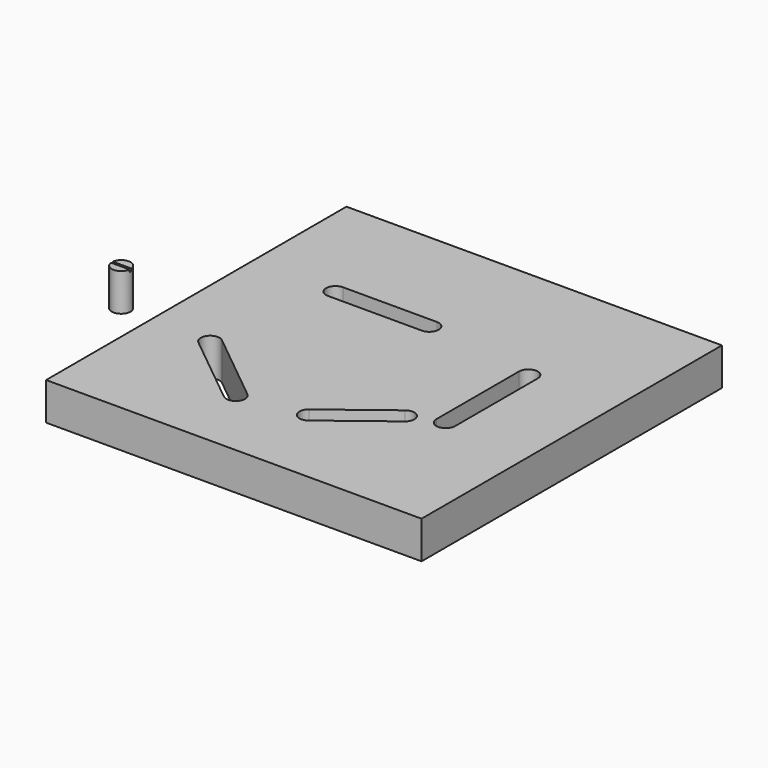
from build123d import *

# Parameters (mm, degrees)
F0_W     = 254
F0_H     = 254
F0_R     = 6.35
F1_DEPTH = 25.4
F2_W     = 15.24
F2_H     = 1.524
F3_DEPTH = 1.524


with BuildPart() as f1:
    # F0 (on Top) → F1 (new body)
    with BuildSketch(Plane.XY):
        Rectangle(F0_W, F0_H)
        with BuildLine():
            Line((-41.731983, -83.161526), (-91.045296, -43.155937))
            ThreePointArc((-91.045296, -43.155937), (-91.976068, -34.224047), (-83.044178, -33.293274))
            Line((-83.044178, -33.293274), (-33.730865, -73.298863))
            ThreePointArc((-33.730865, -73.298863), (-32.800093, -82.230754), (-41.731983, -83.161526))
        make_face(mode=Mode.SUBTRACT)
        with BuildLine():
            Line((50.524745, -45.641361), (10.214319, -76.555914))
            ThreePointArc((10.214319, -76.555914), (1.311197, -75.38143), (2.485681, -66.478308))
            Line((2.485681, -66.478308), (42.796106, -35.563755))
            ThreePointArc((42.796106, -35.563755), (51.699229, -36.738239), (50.524745, -45.641361))
        make_face(mode=Mode.SUBTRACT)
        with BuildLine():
            Line((-7.311175, 41.137009), (-70.811175, 41.137009))
            ThreePointArc((-70.811175, 41.137009), (-77.161175, 47.487009), (-70.811175, 53.837009))
            Line((-70.811175, 53.837009), (-7.311175, 53.837009))
            ThreePointArc((-7.311175, 53.837009), (-0.961175, 47.487009), (-7.311175, 41.137009))
        make_face(mode=Mode.SUBTRACT)
        with BuildLine():
            Line((61.958003, -33.149569), (61.958003, 36.700431))
            ThreePointArc((61.958003, 36.700431), (68.308003, 43.050431), (74.658003, 36.700431))
            Line((74.658003, 36.700431), (74.658003, -33.149569))
            ThreePointArc((74.658003, -33.149569), (68.308003, -39.499569), (61.958003, -33.149569))
        make_face(mode=Mode.SUBTRACT)
        with Locations((-177.8, 0)):
            Circle(F0_R)
    extrude(amount=F1_DEPTH)

    # F2 (on face) → F3 (cut)
    with BuildSketch(Plane.XY.offset(25.4)):
        with Locations((-177.8, 0)):
            Rectangle(F2_W, F2_H)
    extrude(amount=-F3_DEPTH, mode=Mode.SUBTRACT)


solid = f1.part
